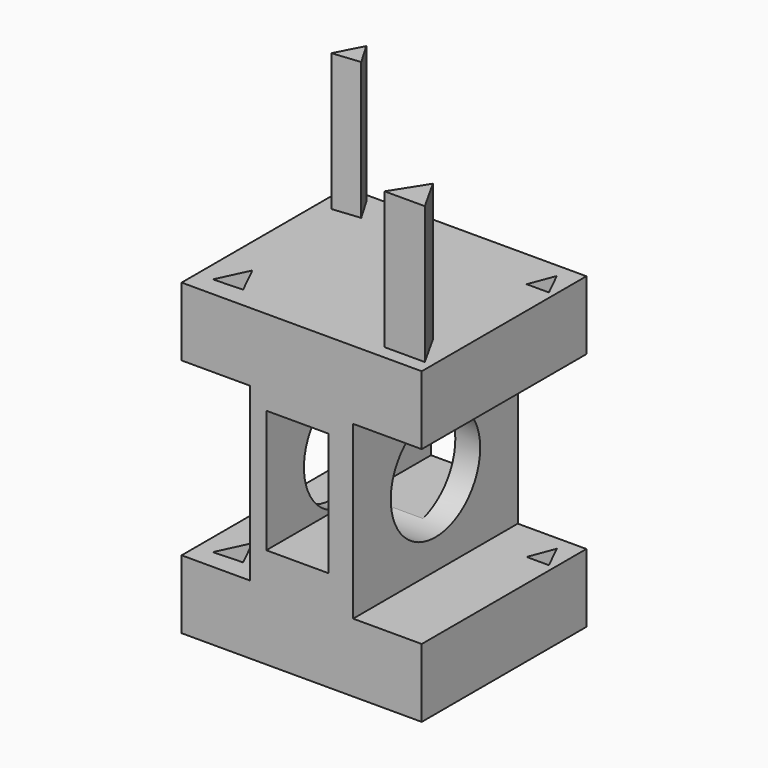
from build123d import *

# Parameters (mm, degrees)
F1_DEPTH  = 76.2
F2_R      = 20.701916
F3_DEPTH  = 63.501
F5_DEPTH  = 50.8
F7_DEPTH  = 114.301
F9_DEPTH  = 50.8
F11_DEPTH = 114.301
F12_W     = 22.93722
F12_H     = 45.488945
F13_DEPTH = 76.201


with BuildPart() as f1:
    # F0 (on Front) → F1 (new body)
    with BuildSketch(Plane.XZ):
        Polygon((-40.358745, -29.197829), (-40.358745, -54.597829), (48.541255, -54.597829), (48.541255, -29.197829), (23.141255, -29.197829), (23.141255, 34.302171), (48.541255, 34.302171), (48.541255, 59.702171), (-40.358745, 59.702171), (-40.358745, 34.302171), (-14.958745, 34.302171), (-14.958745, -29.197829), align=None)
    extrude(amount=F1_DEPTH)

    # F2 (on face) → F3 (cut, through all)
    with BuildSketch(Plane.YZ.offset(23.141255)):
        with Locations((-38.1, 2.552171)):
            Circle(F2_R)
    extrude(amount=-F3_DEPTH, mode=Mode.SUBTRACT)

    # F4 (on face) → F5 (join)
    with BuildSketch(Plane.XY.offset(59.702171)):
        Polygon((38.645647, -58.671612), (30.735792, -71.129635), (45.613699, -71.129635), align=None)
    extrude(amount=F5_DEPTH)

    # F6 (on face) → F7 (cut, through all)
    with BuildSketch(Plane.XY.offset(59.702171)):
        Polygon((-29.12768, -57.497039), (-34.554791, -69.002517), (-23.700567, -68.568349), align=None)
    extrude(amount=-F7_DEPTH, mode=Mode.SUBTRACT)

    # F8 (on face) → F9 (join)
    with BuildSketch(Plane.XY.offset(59.702171)):
        Polygon((-30.212333, -3.429755), (-35.322022, -13.198283), (-25.102641, -12.146287), align=None)
    extrude(amount=F9_DEPTH)

    # F10 (on face) → F11 (cut, through all)
    with BuildSketch(Plane.XY.offset(59.702171)):
        Polygon((41.774195, -5.233176), (38.167354, -14.701133), (46.433032, -14.701133), align=None)
    extrude(amount=-F11_DEPTH, mode=Mode.SUBTRACT)

    # F12 (on face) → F13 (cut, through all)
    with BuildSketch(Plane.XZ.offset(76.2)):
        with Locations((2.466541, 5.390951)):
            Rectangle(F12_W, F12_H)
    extrude(amount=-F13_DEPTH, mode=Mode.SUBTRACT)


solid = f1.part
